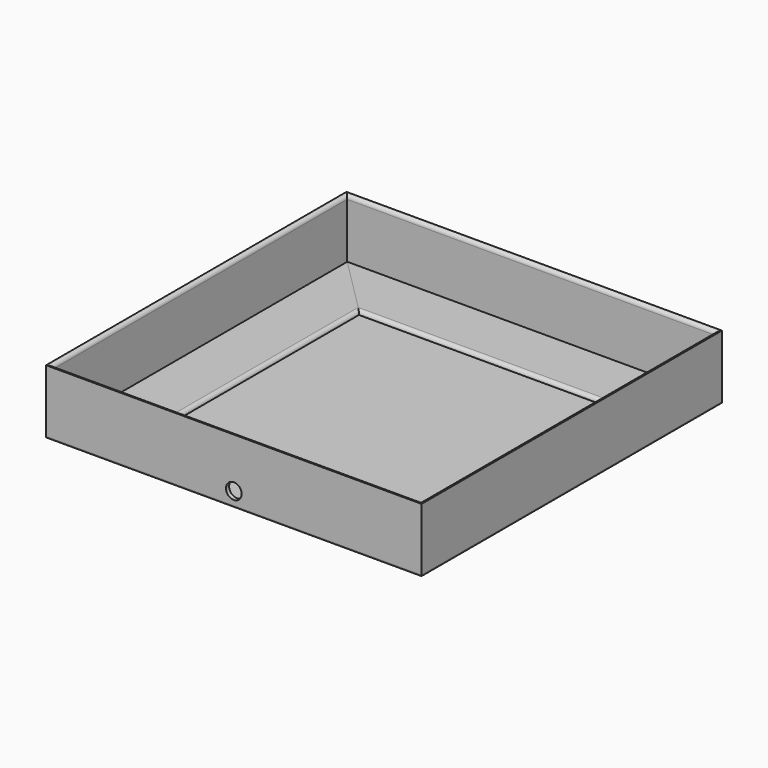
from build123d import *

# Parameters (mm, degrees)
F1_DEPTH  = 6.35
F3_DEPTH  = 101.6
F4_R      = 6.096
F8_COUNT  = 4
F9_W      = 609.6
F9_H      = 609.6
F10_DEPTH = 1.6002
F12_D     = 25.4


with BuildPart() as f1:
    # F0 (on Top) → F1 (new body)
    with BuildSketch(Plane.XY):
        Polygon((321.8349981576, 40.8305857882), (-84.5650018424, 40.8305857882), (-186.1650018424, -60.7694142118), (423.4349981576, -60.7694142118), align=None)
    extrude(amount=F1_DEPTH)

    # F2 (on Top) → F3 (join)
    with BuildSketch(Plane.XY):
        Polygon((-179.8150018424, -54.4194142118), (-186.1650018424, -60.7694142118), (423.4349981576, -60.7694142118), (417.0849981576, -54.4194142118), align=None)
    extrude(amount=F3_DEPTH)

    # F4
    f4_edges = [f1.edges().sort_by_distance(p)[0] for p in [
        (118.634998, 40.830586, 6.35),
        (118.634998, -54.419414, 101.6),
    ]]
    fillet(f4_edges, radius=F4_R)


with BuildPart() as f8_1:
    # F8: instance of F1
    add(f1.part.rotate(Axis((118.6349981576, 244.0305857882, 47.6291626692), (0, 0, 1)), 1 * 360 / F8_COUNT))


with BuildPart() as f8_2:
    # F8: instance of F1
    add(f1.part.rotate(Axis((118.6349981576, 244.0305857882, 47.6291626692), (0, 0, 1)), 2 * 360 / F8_COUNT))


with BuildPart() as f8_3:
    # F8: instance of F1
    add(f1.part.rotate(Axis((118.6349981576, 244.0305857882, 47.6291626692), (0, 0, 1)), 3 * 360 / F8_COUNT))


with BuildPart() as f10:
    # F9 (on Top) → F10 (new body)
    with BuildSketch(Plane.XY):
        with Locations((118.6349981576, 244.0305857882)):
            Rectangle(F9_W, F9_H)
    extrude(amount=-F10_DEPTH)


with BuildPart() as f1_1:
    add(f1.part)

    # F12 (through all)
    with Locations(Plane.XZ.offset(60.7694142118)):
        with Locations((118.6349981576, 20.828)):
            Hole(F12_D / 2)


solid = Compound([f8_1.part, f8_2.part, f8_3.part, f10.part, f1_1.part])
